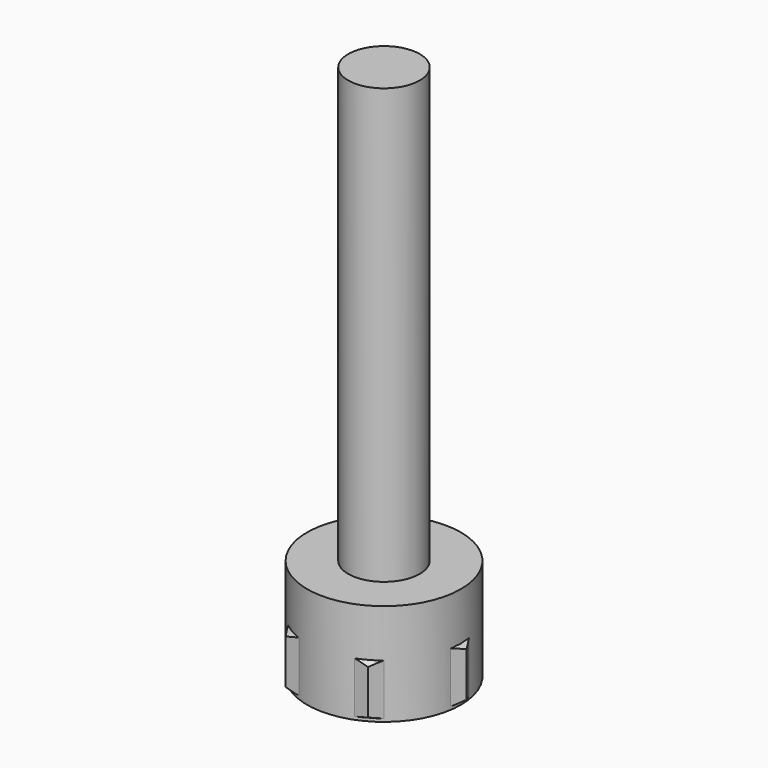
from build123d import *

# Parameters (mm, degrees)
F0_R      = 2.15
F0_R_2    = 1
F1_DEPTH  = 2.85
F2_DEPTH  = 15
F3_R      = 1
F4_DEPTH  = 1.3
F5_R      = 1
F6_DEPTH  = 1.6
F9_SIZE   = 0.25
F10_ANGLE = 30


with BuildPart() as f1:
    # F0 (on Top) → F1 (new body)
    with BuildSketch(Plane.XY):
        Circle(F0_R)
        Circle(F0_R_2, mode=Mode.SUBTRACT)
        Circle(F0_R_2)
    extrude(amount=F1_DEPTH)

    # F0 (on Top) → F2 (join)
    with BuildSketch(Plane.XY):
        Circle(F0_R_2)
    extrude(amount=F2_DEPTH)

    # F3 (on face) → F4 (cut)
    with BuildSketch(Plane.XY):
        Polygon((-0.7216878365, -1.25), (0.7216878365, -1.25), (1.443375673, 0), (0.7216878365, 1.25), (-0.7216878365, 1.25), (-1.443375673, 0), align=None)
        Circle(F3_R, mode=Mode.SUBTRACT)
    extrude(amount=F4_DEPTH, mode=Mode.SUBTRACT)


with BuildPart() as f6:
    # F5 (on Top) → F6 (new body)
    with BuildSketch(Plane.XY):
        Polygon((2, -1.0584754935), (2, 1.0584754935), (2, 1.1547005384), (0, 2.3094010768), (-2, 1.1547005384), (-2, -1.1547005384), (0, -2.3094010768), (2, -1.1547005384), align=None)
        Circle(F5_R, mode=Mode.SUBTRACT)
    extrude(amount=F6_DEPTH)

    # F7 (on Front) → F8 (revolve, cut)
    with BuildSketch(Plane.XZ):
        Polygon((3.3856406461, 1.6), (2, 1.6), (3.3856406461, 0.8), align=None)
        Polygon((3.3856406461, 0), (3.3856406461, 0.8), (2, 0), align=None)
    revolve(axis=Axis((0, 0, 0.8), (0, 0, 1)), mode=Mode.SUBTRACT)

    # F9
    f9_edges = [f6.edges().sort_by_distance(p)[0] for p in [
        (1, 0, 0.8),
        (-1, 0, 0),
        (-1, 0, 1.6),
    ]]
    chamfer(f9_edges, length=F9_SIZE)


with BuildPart() as f6_1:
    # F10: moved
    add(f6.part.rotate(Axis((0, 0, 0.8), (0, 0, 1)), F10_ANGLE))


solid = Compound([f1.part, f6_1.part])
